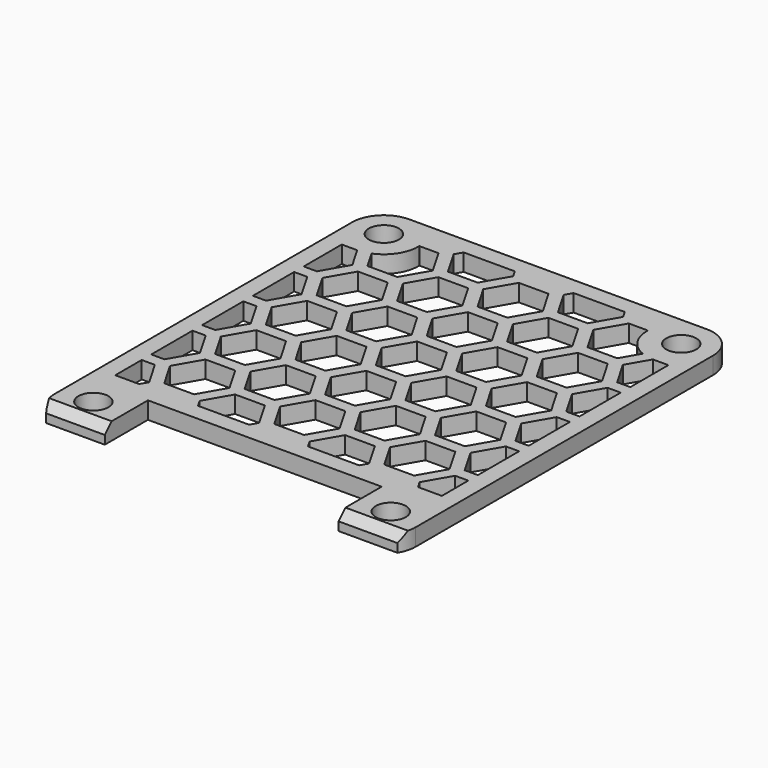
from build123d import *

# Parameters (mm, degrees)
F1_R     = 1.75
F2_DEPTH = 2
F3_SIZE  = 1


with BuildPart() as f2:
    # F1 (on Top) → F2 (new body)
    with BuildSketch(Plane.XY):
        with BuildLine():
            ThreePointArc((-17.3, 21.32277), (-19.916295, 20.239065), (-21, 17.62277))
            Line((-21, 17.62277), (-21, -25.62277))
            ThreePointArc((-21, -25.62277), (-20.854918, -26.648714), (-20.431048, -27.5942))
            Line((-20.431048, -27.5942), (-13.6, -27.5942))
            Line((-13.6, -27.5942), (-13.6, -21.32277))
            Line((-13.6, -21.32277), (13.6, -21.32277))
            Line((13.6, -21.32277), (13.6, -27.5942))
            Line((13.6, -27.5942), (20.431048, -27.5942))
            ThreePointArc((20.431048, -27.5942), (20.854918, -26.648714), (21, -25.62277))
            Line((21, -25.62277), (21, 17.62277))
            ThreePointArc((21, 17.62277), (19.916295, 20.239065), (17.3, 21.32277))
            Line((17.3, 21.32277), (-17.3, 21.32277))
        make_face()
        with Locations((-17.3, -24.62277)):
            Circle(F1_R, mode=Mode.SUBTRACT)
        Polygon((-16.225238, -19.32277), (-19, -19.32277), (-19, -15.475209), (-17.467949, -15.475209), (-15.735898, -18.475209), align=None, mode=Mode.SUBTRACT)
        Polygon((-8.132051, -15.475209), (-4.667949, -15.475209), (-2.935898, -18.475209), (-3.425238, -19.32277), (-9.374762, -19.32277), (-9.864102, -18.475209), align=None, mode=Mode.SUBTRACT)
        Polygon((-19, -14.085125), (-19, -8.085125), (-17.467949, -8.085125), (-15.735898, -11.085125), (-17.467949, -14.085125), align=None, mode=Mode.SUBTRACT)
        Polygon((-14.532051, -11.780167), (-11.067949, -11.780167), (-9.335898, -14.780167), (-11.067949, -17.780167), (-14.532051, -17.780167), (-16.264102, -14.780167), align=None, mode=Mode.SUBTRACT)
        Polygon((-19, -0.695042), (-17.467949, -0.695042), (-15.735898, -3.695042), (-17.467949, -6.695042), (-19, -6.695042), align=None, mode=Mode.SUBTRACT)
        Polygon((-14.532051, -4.390083), (-11.067949, -4.390083), (-9.335898, -7.390083), (-11.067949, -10.390083), (-14.532051, -10.390083), (-16.264102, -7.390083), align=None, mode=Mode.SUBTRACT)
        Polygon((-8.132051, -8.085125), (-4.667949, -8.085125), (-2.935898, -11.085125), (-4.667949, -14.085125), (-8.132051, -14.085125), (-9.864102, -11.085125), align=None, mode=Mode.SUBTRACT)
        Polygon((-1.732051, -11.780167), (1.732051, -11.780167), (3.464102, -14.780167), (1.732051, -17.780167), (-1.732051, -17.780167), (-3.464102, -14.780167), align=None, mode=Mode.SUBTRACT)
        Polygon((-8.132051, -0.695042), (-4.667949, -0.695042), (-2.935898, -3.695042), (-4.667949, -6.695042), (-8.132051, -6.695042), (-9.864102, -3.695042), align=None, mode=Mode.SUBTRACT)
        Polygon((4.667949, -15.475209), (8.132051, -15.475209), (9.864102, -18.475209), (9.374762, -19.32277), (3.425238, -19.32277), (2.935898, -18.475209), align=None, mode=Mode.SUBTRACT)
        with Locations((17.3, -24.62277)):
            Circle(F1_R, mode=Mode.SUBTRACT)
        Polygon((19, -15.475209), (19, -19.32277), (16.225238, -19.32277), (15.735898, -18.475209), (17.467949, -15.475209), align=None, mode=Mode.SUBTRACT)
        Polygon((4.667949, -8.085125), (8.132051, -8.085125), (9.864102, -11.085125), (8.132051, -14.085125), (4.667949, -14.085125), (2.935898, -11.085125), align=None, mode=Mode.SUBTRACT)
        Polygon((-1.732051, -4.390083), (1.732051, -4.390083), (3.464102, -7.390083), (1.732051, -10.390083), (-1.732051, -10.390083), (-3.464102, -7.390083), align=None, mode=Mode.SUBTRACT)
        Polygon((4.667949, -0.695042), (8.132051, -0.695042), (9.864102, -3.695042), (8.132051, -6.695042), (4.667949, -6.695042), (2.935898, -3.695042), align=None, mode=Mode.SUBTRACT)
        Polygon((11.067949, -11.780167), (14.532051, -11.780167), (16.264102, -14.780167), (14.532051, -17.780167), (11.067949, -17.780167), (9.335898, -14.780167), align=None, mode=Mode.SUBTRACT)
        Polygon((15.735898, -11.085125), (17.467949, -8.085125), (19, -8.085125), (19, -14.085125), (17.467949, -14.085125), align=None, mode=Mode.SUBTRACT)
        Polygon((11.067949, -4.390083), (14.532051, -4.390083), (16.264102, -7.390083), (14.532051, -10.390083), (11.067949, -10.390083), (9.335898, -7.390083), align=None, mode=Mode.SUBTRACT)
        Polygon((15.735898, -3.695042), (17.467949, -0.695042), (19, -0.695042), (19, -6.695042), (17.467949, -6.695042), align=None, mode=Mode.SUBTRACT)
        Polygon((-14.532051, 3), (-11.067949, 3), (-9.335898, 0), (-11.067949, -3), (-14.532051, -3), (-16.264102, 0), align=None, mode=Mode.SUBTRACT)
        Polygon((-19, 0.695042), (-19, 6.695042), (-17.467949, 6.695042), (-15.735898, 3.695042), (-17.467949, 0.695042), align=None, mode=Mode.SUBTRACT)
        Polygon((-14.532051, 10.390083), (-11.067949, 10.390083), (-9.335898, 7.390083), (-11.067949, 4.390083), (-14.532051, 4.390083), (-16.264102, 7.390083), align=None, mode=Mode.SUBTRACT)
        Polygon((-8.132051, 6.695042), (-4.667949, 6.695042), (-2.935898, 3.695042), (-4.667949, 0.695042), (-8.132051, 0.695042), (-9.864102, 3.695042), align=None, mode=Mode.SUBTRACT)
        Polygon((-1.732051, 4.390083), (-3.464102, 7.390083), (-1.732051, 10.390083), (1.732051, 10.390083), (3.464102, 7.390083), (1.732051, 4.390083), align=None, mode=Mode.SUBTRACT)
        with BuildLine():
            Line((-19, 8.085125), (-19, 13.62277))
            Line((-19, 13.62277), (-17.3, 13.62277))
            ThreePointArc((-17.3, 13.62277), (-17.250849, 13.623072), (-17.201706, 13.623978))
            Line((-17.201706, 13.623978), (-15.735898, 11.085125))
            Line((-15.735898, 11.085125), (-17.467949, 8.085125))
            Line((-17.467949, 8.085125), (-19, 8.085125))
        make_face(mode=Mode.SUBTRACT)
        with BuildLine():
            Line((-13.3, 17.62277), (-13.3, 17.780167))
            Line((-13.3, 17.780167), (-11.067949, 17.780167))
            Line((-11.067949, 17.780167), (-9.335898, 14.780167))
            Line((-9.335898, 14.780167), (-11.067949, 11.780167))
            Line((-11.067949, 11.780167), (-14.532051, 11.780167))
            Line((-14.532051, 11.780167), (-15.771207, 13.926449))
            ThreePointArc((-15.771207, 13.926449), (-13.974705, 15.399616), (-13.3, 17.62277))
        make_face(mode=Mode.SUBTRACT)
        with Locations((-17.3, 17.62277)):
            Circle(F1_R, mode=Mode.SUBTRACT)
        Polygon((-8.132051, 14.085125), (-4.667949, 14.085125), (-2.935898, 11.085125), (-4.667949, 8.085125), (-8.132051, 8.085125), (-9.864102, 11.085125), align=None, mode=Mode.SUBTRACT)
        Polygon((-9.864102, 18.475209), (-9.374762, 19.32277), (-3.425238, 19.32277), (-2.935898, 18.475209), (-4.667949, 15.475209), (-8.132051, 15.475209), align=None, mode=Mode.SUBTRACT)
        Polygon((-1.732051, 3), (1.732051, 3), (3.464102, 0), (1.732051, -3), (-1.732051, -3), (-3.464102, 0), align=None, mode=Mode.SUBTRACT)
        Polygon((4.667949, 6.695042), (8.132051, 6.695042), (9.864102, 3.695042), (8.132051, 0.695042), (4.667949, 0.695042), (2.935898, 3.695042), align=None, mode=Mode.SUBTRACT)
        Polygon((11.067949, 3), (14.532051, 3), (16.264102, 0), (14.532051, -3), (11.067949, -3), (9.335898, 0), align=None, mode=Mode.SUBTRACT)
        Polygon((11.067949, 10.390083), (14.532051, 10.390083), (16.264102, 7.390083), (14.532051, 4.390083), (11.067949, 4.390083), (9.335898, 7.390083), align=None, mode=Mode.SUBTRACT)
        Polygon((15.735898, 3.695042), (17.467949, 6.695042), (19, 6.695042), (19, 0.695042), (17.467949, 0.695042), align=None, mode=Mode.SUBTRACT)
        Polygon((-1.732051, 17.780167), (1.732051, 17.780167), (3.464102, 14.780167), (1.732051, 11.780167), (-1.732051, 11.780167), (-3.464102, 14.780167), align=None, mode=Mode.SUBTRACT)
        Polygon((4.667949, 14.085125), (8.132051, 14.085125), (9.864102, 11.085125), (8.132051, 8.085125), (4.667949, 8.085125), (2.935898, 11.085125), align=None, mode=Mode.SUBTRACT)
        Polygon((8.132051, 15.475209), (4.667949, 15.475209), (2.935898, 18.475209), (3.425238, 19.32277), (9.374762, 19.32277), (9.864102, 18.475209), align=None, mode=Mode.SUBTRACT)
        with BuildLine():
            Line((11.067949, 17.780167), (13.3, 17.780167))
            Line((13.3, 17.780167), (13.3, 17.62277))
            ThreePointArc((13.3, 17.62277), (13.974705, 15.399616), (15.771207, 13.926449))
            Line((15.771207, 13.926449), (14.532051, 11.780167))
            Line((14.532051, 11.780167), (11.067949, 11.780167))
            Line((11.067949, 11.780167), (9.335898, 14.780167))
            Line((9.335898, 14.780167), (11.067949, 17.780167))
        make_face(mode=Mode.SUBTRACT)
        with BuildLine():
            Line((17.3, 13.62277), (19, 13.62277))
            Line((19, 13.62277), (19, 8.085125))
            Line((19, 8.085125), (17.467949, 8.085125))
            Line((17.467949, 8.085125), (15.735898, 11.085125))
            Line((15.735898, 11.085125), (17.201706, 13.623978))
            ThreePointArc((17.201706, 13.623978), (17.250849, 13.623072), (17.3, 13.62277))
        make_face(mode=Mode.SUBTRACT)
        with Locations((17.3, 17.62277)):
            Circle(F1_R, mode=Mode.SUBTRACT)
    extrude(amount=F2_DEPTH)

    # F3
    f3_edges = [f2.edges().sort_by_distance(p)[0] for p in [
        (-17.015524, -27.5942, 2),
        (17.015524, -27.5942, 2),
    ]]
    chamfer(f3_edges, length=F3_SIZE)


solid = f2.part
